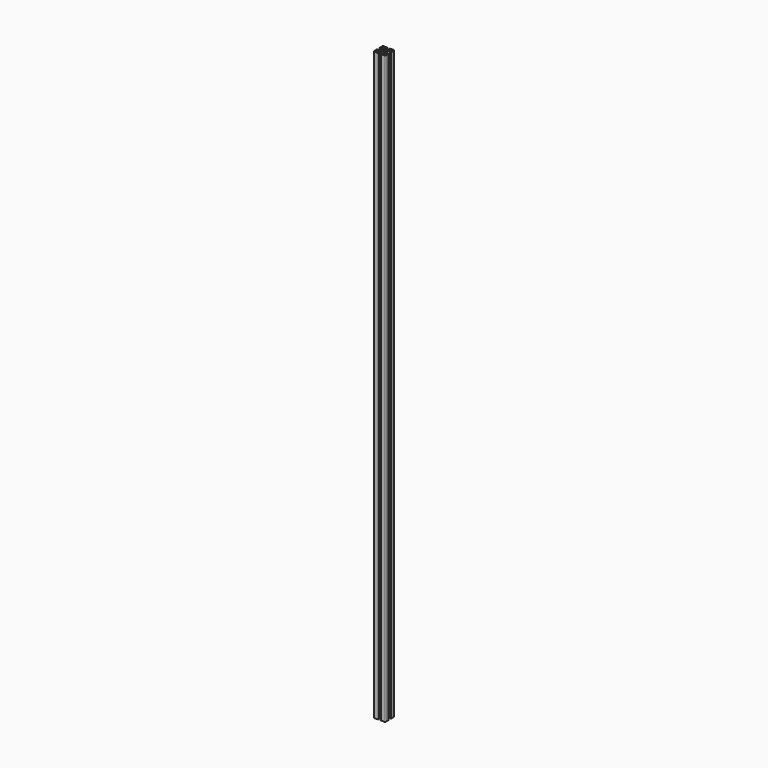
from build123d import *

# Parameters (mm, degrees)
SKETCH_R  = 2.5
PAD_DEPTH = 745


with BuildPart() as part:
    # Sketch → Pad (new body, symmetric)
    with BuildSketch(Plane.XY):
        with BuildLine():
            Line((14, 3.15), (12.2, 3.15))
            Line((12.2, 3.15), (12.2, 8.15))
            Line((12.2, 8.15), (9.634924, 8.15))
            Line((9.634924, 8.15), (5.2, 3.715076))
            Line((5.2, 3.715076), (5.2, -3.715076))
            Line((5.2, -3.715076), (9.634924, -8.15))
            Line((9.634924, -8.15), (12.2, -8.15))
            Line((12.2, -8.15), (12.2, -3.15))
            Line((12.2, -3.15), (14, -3.15))
            ThreePointArc((15, -4.15), (14.707107, -3.442893), (14, -3.15))
            Line((15, -4.15), (15, -13))
            ThreePointArc((13, -15), (14.414214, -14.414214), (15, -13))
            Line((13, -15), (4.15, -15))
            ThreePointArc((3.15, -14), (3.442893, -14.707107), (4.15, -15))
            Line((3.15, -14), (3.15, -12.2))
            Line((3.15, -12.2), (8.15, -12.2))
            Line((8.15, -12.2), (8.15, -9.634924))
            Line((8.15, -9.634924), (3.715076, -5.2))
            Line((3.715076, -5.2), (-3.715076, -5.2))
            Line((-3.715076, -5.2), (-8.15, -9.634924))
            Line((-8.15, -9.634924), (-8.15, -12.2))
            Line((-8.15, -12.2), (-3.15, -12.2))
            Line((-3.15, -12.2), (-3.15, -14))
            ThreePointArc((-4.15, -15), (-3.442893, -14.707107), (-3.15, -14))
            Line((-4.15, -15), (-13, -15))
            ThreePointArc((-15, -13), (-14.414214, -14.414214), (-13, -15))
            Line((-15, -4.15), (-15, -13))
            ThreePointArc((-14, -3.15), (-14.707107, -3.442893), (-15, -4.15))
            Line((-12.2, -3.15), (-14, -3.15))
            Line((-12.2, -8.15), (-12.2, -3.15))
            Line((-12.2, -8.15), (-9.634924, -8.15))
            Line((-5.2, -3.715076), (-9.634924, -8.15))
            Line((-5.2, 3.715076), (-5.2, -3.715076))
            Line((-9.634924, 8.15), (-5.2, 3.715076))
            Line((-12.2, 8.15), (-9.634924, 8.15))
            Line((-12.2, 3.15), (-12.2, 8.15))
            Line((-14, 3.15), (-12.2, 3.15))
            ThreePointArc((-15, 4.15), (-14.707107, 3.442893), (-14, 3.15))
            Line((-15, 13), (-15, 4.15))
            ThreePointArc((-13, 15), (-14.414214, 14.414214), (-15, 13))
            Line((-4.15, 15), (-13, 15))
            ThreePointArc((-3.15, 14), (-3.442893, 14.707107), (-4.15, 15))
            Line((-3.15, 12.2), (-3.15, 14))
            Line((-8.15, 12.2), (-3.15, 12.2))
            Line((-8.15, 9.634924), (-8.15, 12.2))
            Line((-3.715076, 5.2), (-8.15, 9.634924))
            Line((3.715076, 5.2), (-3.715076, 5.2))
            Line((8.15, 9.634924), (3.715076, 5.2))
            Line((8.15, 12.2), (8.15, 9.634924))
            Line((3.15, 12.2), (8.15, 12.2))
            Line((3.15, 14), (3.15, 12.2))
            ThreePointArc((4.15, 15), (3.442893, 14.707107), (3.15, 14))
            Line((13, 15), (4.15, 15))
            ThreePointArc((15, 13), (14.414214, 14.414214), (13, 15))
            Line((15, 4.15), (15, 13))
            ThreePointArc((14, 3.15), (14.707107, 3.442893), (15, 4.15))
        make_face()
        Circle(SKETCH_R, mode=Mode.SUBTRACT)
        with BuildLine():
            Line((9.2, 12.2), (11.2, 12.2))
            ThreePointArc((12.2, 11.2), (11.907107, 11.907107), (11.2, 12.2))
            Line((12.2, 11.2), (12.2, 9.2))
            Line((12.2, 9.2), (9.2, 9.2))
            Line((9.2, 9.2), (9.2, 12.2))
        make_face(mode=Mode.SUBTRACT)
        with BuildLine():
            ThreePointArc((-11.2, 12.2), (-11.907107, 11.907107), (-12.2, 11.2))
            Line((-12.2, 9.2), (-12.2, 11.2))
            Line((-9.2, 9.2), (-12.2, 9.2))
            Line((-9.2, 12.2), (-9.2, 9.2))
            Line((-11.2, 12.2), (-9.2, 12.2))
        make_face(mode=Mode.SUBTRACT)
        with BuildLine():
            ThreePointArc((-12.2, -11.2), (-11.907107, -11.907107), (-11.2, -12.2))
            Line((-9.2, -12.2), (-11.2, -12.2))
            Line((-9.2, -9.2), (-9.2, -12.2))
            Line((-12.2, -9.2), (-9.2, -9.2))
            Line((-12.2, -11.2), (-12.2, -9.2))
        make_face(mode=Mode.SUBTRACT)
        with BuildLine():
            ThreePointArc((11.2, -12.2), (11.907107, -11.907107), (12.2, -11.2))
            Line((12.2, -11.2), (12.2, -9.2))
            Line((12.2, -9.2), (9.2, -9.2))
            Line((9.2, -9.2), (9.2, -12.2))
            Line((9.2, -12.2), (11.2, -12.2))
        make_face(mode=Mode.SUBTRACT)
    extrude(amount=PAD_DEPTH, both=True)


solid = part.part
